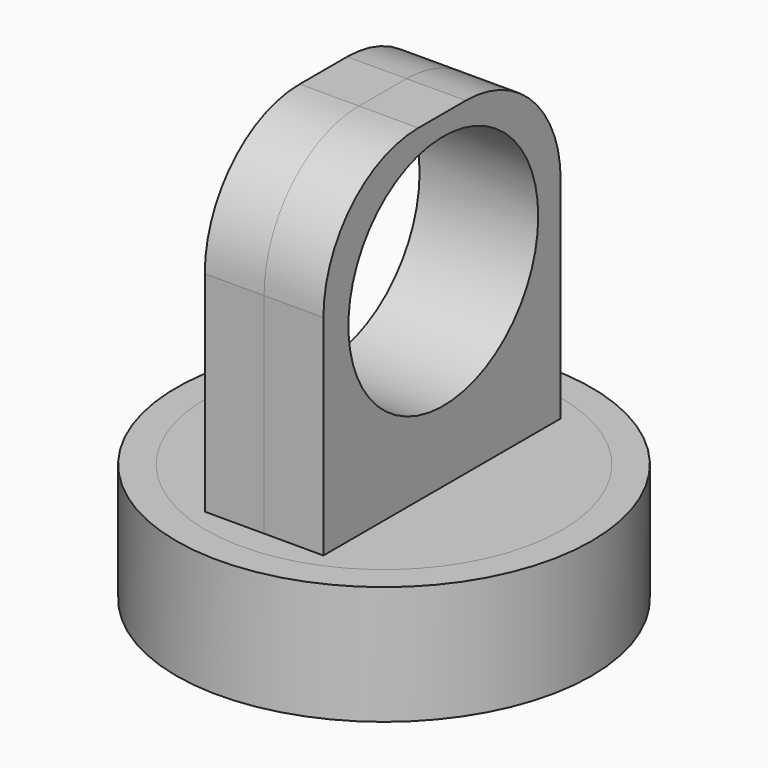
from build123d import *

# Parameters (mm, degrees)
F0_R      = 12.7
F2_DEPTH  = 6.35
F2_FACE_R = 12.7
F3_DEPTH  = 6.35
F1_R      = 22.225
F1_R_2    = 19.05
F4_DEPTH  = 12.7
F5_R      = 19.05
F6_DEPTH  = 3.175


with BuildPart() as f2:
    # F0 (on Right) → F2 (new body)
    with BuildSketch(Plane.YZ):
        with BuildLine():
            Line((-16.043504, 0), (15.706496, 0))
            Line((15.706496, 0), (15.706496, 22.425434))
            ThreePointArc((15.706496, 22.425434), (11.986752, 31.405691), (3.006496, 35.125434))
            Line((3.006496, 35.125434), (-3.343504, 35.125434))
            ThreePointArc((-3.343504, 35.125434), (-12.32376, 31.405691), (-16.043504, 22.425434))
            Line((-16.043504, 22.425434), (-16.043504, 0))
        make_face()
        with Locations((0, 20.275658)):
            Circle(F0_R, mode=Mode.SUBTRACT)
    extrude(amount=F2_DEPTH)

    # F2_face (on face) → F3 (join)
    with BuildSketch(Plane(origin=(0, -0.326824, 13.123454), x_dir=(0, 1, 0), z_dir=(-1, 0, 0))):
        with BuildLine():
            Line((16.033321, 13.123454), (-15.716679, 13.123454))
            Line((-15.716679, 13.123454), (-15.716679, -9.301981))
            ThreePointArc((-15.716679, -9.301981), (-11.996936, -18.282237), (-3.016679, -22.001981))
            Line((-3.016679, -22.001981), (3.333321, -22.001981))
            ThreePointArc((3.333321, -22.001981), (12.313577, -18.282237), (16.033321, -9.301981))
            Line((16.033321, -9.301981), (16.033321, 13.123454))
        make_face()
        with Locations((0.326824, -7.152204)):
            Circle(F2_FACE_R, mode=Mode.SUBTRACT)
    extrude(amount=F3_DEPTH)


with BuildPart() as f4:
    # F1 (on Top) → F4 (new body)
    with BuildSketch(Plane.XY):
        Circle(F1_R)
        Circle(F1_R_2, mode=Mode.SUBTRACT)
    extrude(amount=-F4_DEPTH)


with BuildPart() as f6:
    # F5 (on Top) → F6 (new body)
    with BuildSketch(Plane.XY):
        Circle(F5_R)
    extrude(amount=-F6_DEPTH)


solid = Compound([f2.part, f4.part, f6.part])
